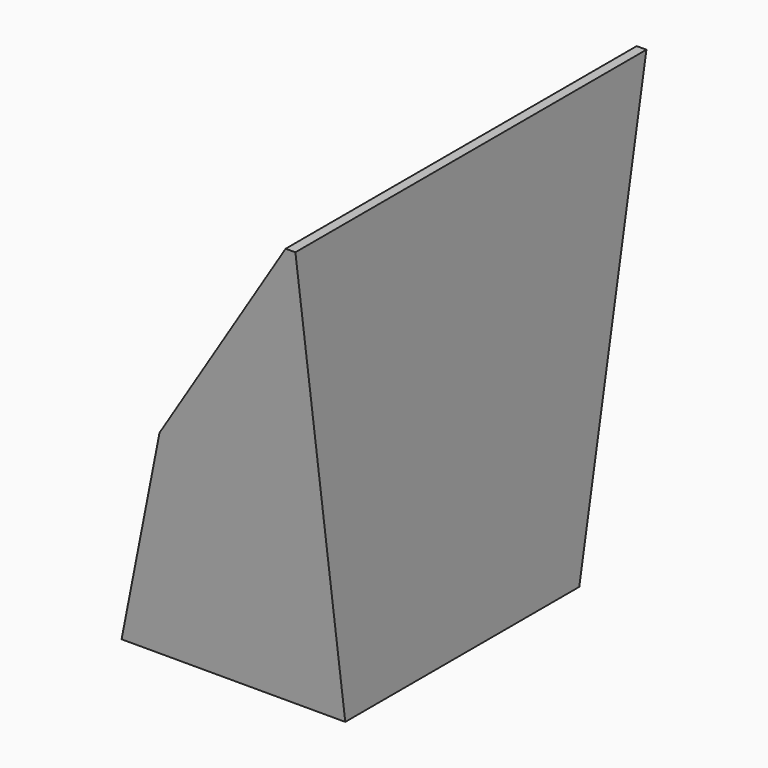
from build123d import *

# Parameters (mm, degrees)
F1_DEPTH      = 100
F3_DEPTH      = 90
F4_R          = 10
F6_DEPTH      = 65.794616
F6_DEPTH_BACK = 84.207384


with BuildPart() as f1:
    # F0 (on Right) → F1 (new body)
    with BuildSketch(Plane.YZ):
        Polygon((84.206384, 102.410072), (-65.793616, 102.410072), (-44.478415, -47.589928), (55.521585, -47.589928), align=None)
    extrude(amount=F1_DEPTH)

    # F2 (on face) → F3 (cut)
    with BuildSketch(Plane(origin=(0, 0, 0), x_dir=(0, -1, 0), z_dir=(-1, 0, 0))):
        Polygon((60.0917, 102.410072), (-78.619334, 102.410072), (-50.892521, -42.580376), (39.917622, -42.711261), align=None)
    extrude(amount=-F3_DEPTH, mode=Mode.SUBTRACT)

    # F4
    f4_edges = [f1.edges().sort_by_distance(p)[0] for p in [
        (45, 50.892521, -42.580376),
        (90, 5.48745, -42.645818),
        (45, -39.917622, -42.711261),
        (90, 64.755927, 29.914848),
        (90, -50.004661, 29.849406),
    ]]
    fillet(f4_edges, radius=F4_R)

    # F5 (on Front) → F6 (cut, two sides)
    with BuildSketch(Plane.XZ) as f6_sk:
        Polygon((-27.018974, -66.479579), (18.04512, -66.479579), (44.833042, 25.719849), (101.288192, 109.236158), (-27.018974, 105.970137), align=None)
    extrude(amount=F6_DEPTH, mode=Mode.SUBTRACT)
    extrude(f6_sk.sketch, amount=-F6_DEPTH_BACK, mode=Mode.SUBTRACT)


solid = f1.part
